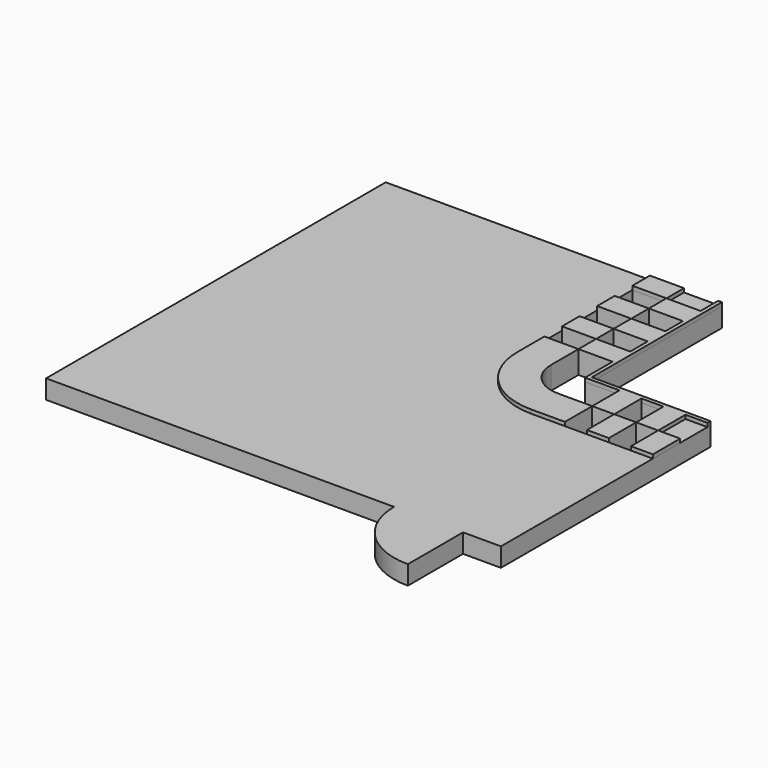
from build123d import *

# Parameters (mm, degrees)
F1_DEPTH = 300
F0_W     = 450
F0_H     = 290
F0_W_2   = 290
F0_H_2   = 450
F2_DEPTH = 250


with BuildPart() as f1:
    # F0 (on Top) → F1 (new body)
    with BuildSketch(Plane.XY):
        with BuildLine():
            Line((-86.2633565673, 3810.7930092514), (-536.2633565673, 3810.7930092514))
            Line((-536.2633565673, 3810.7930092514), (-536.2633565673, 3365.7930092514))
            ThreePointArc((-536.2633565673, 3365.7930092514), (-269.730527447, 2722.3258383716), (373.7366434327, 2455.7930092514))
            Line((373.7366434327, 2455.7930092514), (818.7366434327, 2455.7930092514))
            Line((818.7366434327, 2455.7930092514), (818.7366434327, 2905.7930092514))
            Line((818.7366434327, 2905.7930092514), (368.7366434327, 2905.7930092514))
            ThreePointArc((368.7366434327, 2905.7930092514), (47.0030579929, 3039.0594238115), (-86.2633565673, 3360.7930092514))
            Line((-86.2633565673, 3360.7930092514), (-86.2633565673, 3810.7930092514))
        make_face()
    extrude(amount=F1_DEPTH)


with BuildPart() as f1b:
    # F0 (on Top) → F1, piece 2 (new body)
    with BuildSketch(Plane.XY):
        Polygon((413.7366434327, 5550.7930092514), (363.7366434327, 5550.7930092514), (363.7366434327, 5260.7930092514), (363.7366434327, 4970.7930092514), (363.7366434327, 4680.7930092514), (363.7366434327, 4390.7930092514), (363.7366434327, 4100.7930092514), (363.7366434327, 3810.7930092514), (363.7366434327, 3355.7930092514), (818.7366434327, 3355.7930092514), (1108.7366434327, 3355.7930092514), (1398.7366434327, 3355.7930092514), (1688.7366434327, 3355.7930092514), (1978.7366434327, 3355.7930092514), (1978.7366434327, 3405.7930092514), (818.7366434327, 3405.7930092514), (413.7366434327, 3405.7930092514), (413.7366434327, 3810.7930092514), align=None)
        with Locations((138.7366434327, 5115.7930092514)):
            Rectangle(F0_W, F0_H)
        with Locations((138.7366434327, 4535.7930092514)):
            Rectangle(F0_W, F0_H)
        with Locations((138.7366434327, 3955.7930092514)):
            Rectangle(F0_W, F0_H)
        with Locations((963.7366434327, 3130.7930092514)):
            Rectangle(F0_W_2, F0_H_2)
        with Locations((1543.7366434327, 3130.7930092514)):
            Rectangle(F0_W_2, F0_H_2)
    extrude(amount=F1_DEPTH)


with BuildPart() as f1c:
    # F0 (on Top) → F1, piece 3 (new body)
    with BuildSketch(Plane.XY):
        with Locations((1253.7366434327, 2680.7930092514)):
            Rectangle(F0_W_2, F0_H_2)
    extrude(amount=F1_DEPTH)


with BuildPart() as f1d:
    # F0 (on Top) → F1, piece 4 (new body)
    with BuildSketch(Plane.XY):
        with Locations((-311.2633565673, 4245.7930092514)):
            Rectangle(F0_W, F0_H)
    extrude(amount=F1_DEPTH)


with BuildPart() as f1e:
    # F0 (on Top) → F1, piece 5 (new body)
    with BuildSketch(Plane.XY):
        with Locations((-311.2633565673, 5405.7930092514)):
            Rectangle(F0_W, F0_H)
    extrude(amount=F1_DEPTH)


with BuildPart() as f1f:
    # F0 (on Top) → F1, piece 6 (new body)
    with BuildSketch(Plane.XY):
        with Locations((1833.7366434327, 2680.7930092514)):
            Rectangle(F0_W_2, F0_H_2)
    extrude(amount=F1_DEPTH)


with BuildPart() as f1g:
    # F0 (on Top) → F1, piece 7 (new body)
    with BuildSketch(Plane.XY):
        with Locations((-311.2633565673, 4825.7930092514)):
            Rectangle(F0_W, F0_H)
    extrude(amount=F1_DEPTH)


with BuildPart() as f2:
    # F0 (on Top) → F2 (new body)
    with BuildSketch(Plane.XY):
        with BuildLine():
            Line((-4021.2633565673, 5550.7930092514), (-4021.2633565673, -49.2069907486))
            Line((-4021.2633565673, -49.2069907486), (568.7366434327, -49.2069907486))
            ThreePointArc((568.7366434327, -49.2069907486), (835.269472553, -692.6741616284), (1478.7366434327, -959.2069907486))
            Line((1478.7366434327, -959.2069907486), (1478.7366434327, -49.2069907486))
            Line((1478.7366434327, -49.2069907486), (1978.7366434327, -49.2069907486))
            Line((1978.7366434327, -49.2069907486), (1978.7366434327, 2455.7930092514))
            Line((1978.7366434327, 2455.7930092514), (1688.7366434327, 2455.7930092514))
            Line((1688.7366434327, 2455.7930092514), (1398.7366434327, 2455.7930092514))
            Line((1398.7366434327, 2455.7930092514), (1108.7366434327, 2455.7930092514))
            Line((1108.7366434327, 2455.7930092514), (818.7366434327, 2455.7930092514))
            Line((818.7366434327, 2455.7930092514), (373.7366434327, 2455.7930092514))
            ThreePointArc((373.7366434327, 2455.7930092514), (-269.730527447, 2722.3258383716), (-536.2633565673, 3365.7930092514))
            Line((-536.2633565673, 3365.7930092514), (-536.2633565673, 3810.7930092514))
            Line((-536.2633565673, 3810.7930092514), (-536.2633565673, 4100.7930092514))
            Line((-536.2633565673, 4100.7930092514), (-536.2633565673, 4390.7930092514))
            Line((-536.2633565673, 4390.7930092514), (-536.2633565673, 4680.7930092514))
            Line((-536.2633565673, 4680.7930092514), (-536.2633565673, 4970.7930092514))
            Line((-536.2633565673, 4970.7930092514), (-536.2633565673, 5260.7930092514))
            Line((-536.2633565673, 5260.7930092514), (-536.2633565673, 5550.7930092514))
            Line((-536.2633565673, 5550.7930092514), (-4021.2633565673, 5550.7930092514))
        make_face()
        with Locations((-311.2633565673, 5405.7930092514)):
            Rectangle(F0_W, F0_H)
        with Locations((138.7366434327, 5405.7930092514)):
            Rectangle(F0_W, F0_H)
        Polygon((413.7366434327, 5550.7930092514), (363.7366434327, 5550.7930092514), (363.7366434327, 5260.7930092514), (363.7366434327, 4970.7930092514), (363.7366434327, 4680.7930092514), (363.7366434327, 4390.7930092514), (363.7366434327, 4100.7930092514), (363.7366434327, 3810.7930092514), (363.7366434327, 3355.7930092514), (818.7366434327, 3355.7930092514), (1108.7366434327, 3355.7930092514), (1398.7366434327, 3355.7930092514), (1688.7366434327, 3355.7930092514), (1978.7366434327, 3355.7930092514), (1978.7366434327, 3405.7930092514), (818.7366434327, 3405.7930092514), (413.7366434327, 3405.7930092514), (413.7366434327, 3810.7930092514), align=None)
        with Locations((1833.7366434327, 2680.7930092514)):
            Rectangle(F0_W_2, F0_H_2)
        with Locations((1833.7366434327, 3130.7930092514)):
            Rectangle(F0_W_2, F0_H_2)
    extrude(amount=F2_DEPTH)


solid = Compound([f1.part, f1b.part, f1c.part, f1d.part, f1e.part, f1f.part, f1g.part, f2.part])
